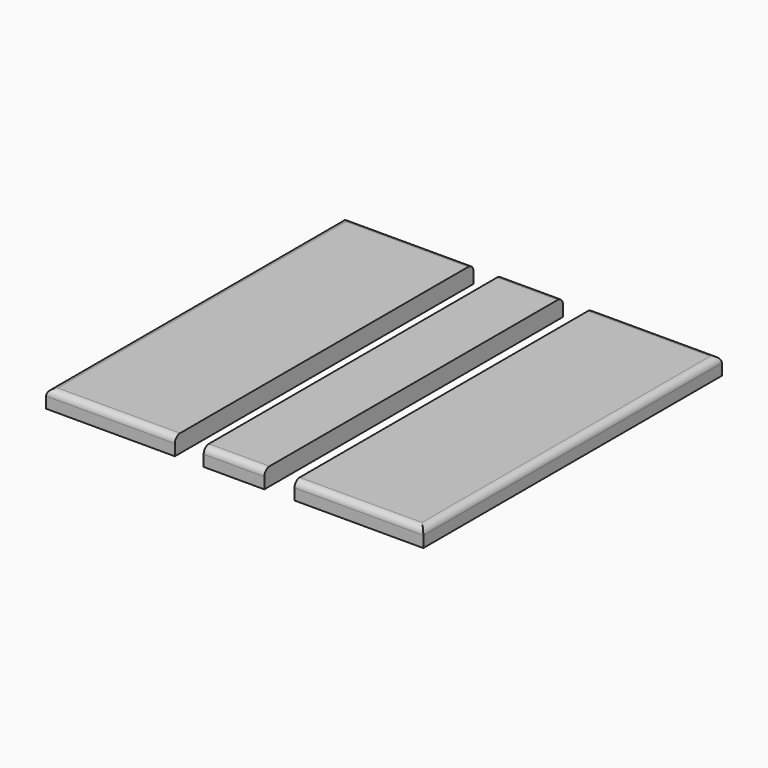
from build123d import *

# Parameters (mm, degrees)
F0_W     = 138
F0_H     = 400
F0_W_2   = 65
F1_DEPTH = 19
F2_R     = 7


with BuildPart() as f1:
    # F0 (on Top) → F1 (new body)
    with BuildSketch(Plane.XY):
        with Locations((-69, 17.855885)):
            Rectangle(F0_W, F0_H)
        with Locations((63.387878, 17.855885)):
            Rectangle(F0_W_2, F0_H)
        with Locations((197.237188, 17.855885)):
            Rectangle(F0_W, F0_H)
    extrude(amount=F1_DEPTH)

    # F2
    f2_edges = [f1.edges().sort_by_distance(p)[0] for p in [
        (-138, 17.855885, 19),
        (-69, 217.855885, 19),
        (63.387878, 217.855885, 19),
        (197.237188, 217.855885, 19),
        (266.237188, 17.855885, 19),
        (197.237188, -182.144115, 19),
        (63.387878, -182.144115, 19),
        (-69, -182.144115, 19),
    ]]
    fillet(f2_edges, radius=F2_R)


solid = f1.part
